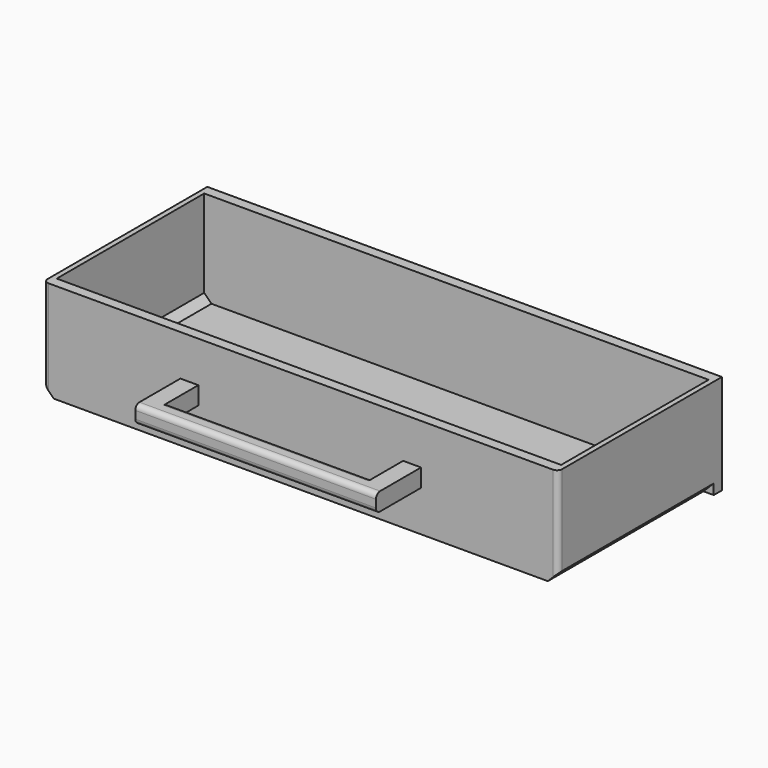
from build123d import *

# Parameters (mm, degrees)
F1_DEPTH  = 72
F2_W      = 201
F2_H      = 39
F3_DEPTH  = 4
F5_DEPTH  = 4
F6_R      = 2
F7_W      = 7
F7_H      = 7
F8_DEPTH  = 22
F9_W      = 7
F9_H      = 7
F10_DEPTH = 80
F11_R     = 2


with BuildPart() as f1:
    # F0 (on Front) → F1 (new body)
    with BuildSketch(Plane.XZ):
        Polygon((-92.8763775631, 18.0203217369), (-94.8763775631, 18.0203217369), (-94.8763775631, -16.9746782631), (-90.8713775631, -20.9796782631), (102.1186224369, -20.9796782631), (106.1236224369, -16.9746782631), (106.1236224369, 18.0203217369), (104.1236224369, 18.0203217369), (104.1236224369, -16.1462511383), (101.2901953121, -18.9796782631), (-90.0429504384, -18.9796782631), (-92.8763775631, -16.1462511383), align=None)
    extrude(amount=F1_DEPTH)

    # F2 (on face) → F3 (join)
    with BuildSketch(Plane(origin=(0, 0, 0), x_dir=(-1, 0, 0), z_dir=(0, 1, 0))):
        with Locations((-5.6236224369, -1.4796782631)):
            Rectangle(F2_W, F2_H)
    extrude(amount=F3_DEPTH)

    # F4 (on face) → F5 (join)
    with BuildSketch(Plane.XZ.offset(72)):
        Polygon((106.1236224369, 18.0203217369), (-94.8763775631, 18.0203217369), (-94.8763775631, -16.9746782631), (-90.8713775631, -20.9796782631), (102.1186224369, -20.9796782631), (106.1236224369, -16.9746782631), align=None)
    extrude(amount=F5_DEPTH)

    # F6
    f6_edges = [f1.edges().sort_by_distance(p)[0] for p in [
        (-94.876378, -76, 0.522822),
        (106.123622, -76, 0.522822),
    ]]
    fillet(f6_edges, radius=F6_R)

    # F7 (on face) → F8 (join)
    with BuildSketch(Plane.XZ.offset(76)):
        with Locations((49.1236224369, -1.4796782631)):
            Rectangle(F7_W, F7_H)
        with Locations((-37.8763775631, -1.4796782631)):
            Rectangle(F7_W, F7_H)
    extrude(amount=F8_DEPTH)

    # F9 (on face) → F10 (join)
    with BuildSketch(Plane.YZ.offset(-34.3763775631)):
        with Locations((-94.5, -1.4796782631)):
            Rectangle(F9_W, F9_H)
    extrude(amount=F10_DEPTH)

    # F11
    f11_edges = [f1.edges().sort_by_distance(p)[0] for p in [
        (5.623622, -98, 2.020322),
        (5.623622, -98, -4.979678),
        (5.623622, -91, 2.020322),
        (5.623622, -91, -4.979678),
    ]]
    fillet(f11_edges, radius=F11_R)


solid = f1.part
